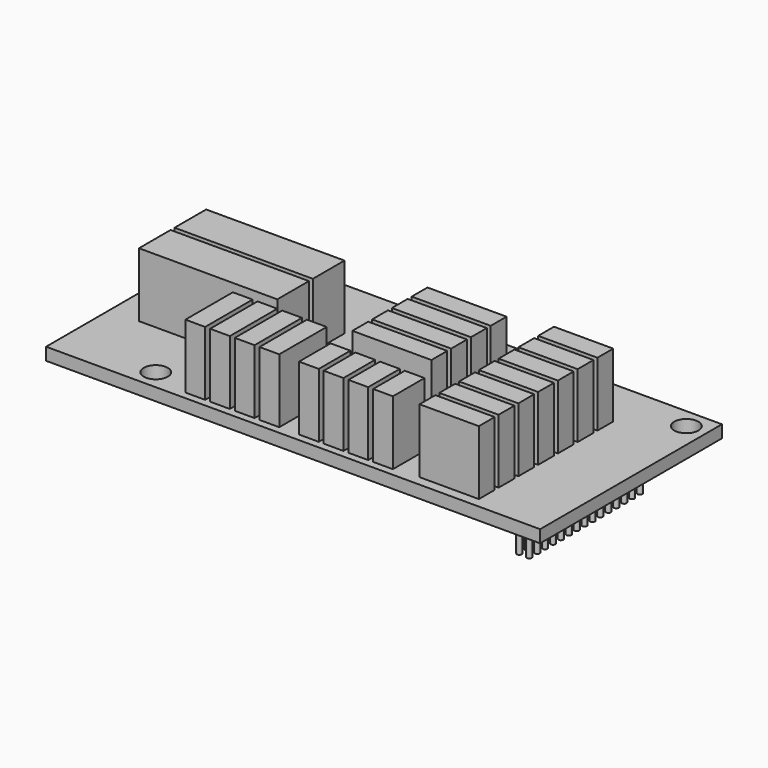
from build123d import *

# Parameters (mm, degrees)
F0_W     = 63.5
F0_H     = 29.21
F0_R     = 1.55
F0_W_2   = 3.43
F0_H_2   = 19.05
F0_W_3   = 19.05
F0_H_3   = 3.43
F0_R_2   = 0.3175
F1_DEPTH = 1.6
F2_DEPTH = 4.55
F3_DEPTH = 1.5
F4_W     = 17.78
F4_H     = 5.08
F4_W_2   = 2.54
F4_H_2   = 7.62
F4_W_3   = 10.16
F4_H_3   = 2.54
F4_W_4   = 7.62
F5_DEPTH = 8.25


with BuildPart() as f1:
    # F0 (on Top) → F1 (new body)
    with BuildSketch(Plane.XY):
        Rectangle(F0_W, F0_H)
        with Locations((-19.685, -12.065)):
            Circle(F0_R, mode=Mode.SUBTRACT)
        with Locations((26.67, -1.905)):
            Rectangle(F0_W_2, F0_H_2, mode=Mode.SUBTRACT)
        with Locations((-16.51, 9.525)):
            Rectangle(F0_W_3, F0_H_3, mode=Mode.SUBTRACT)
        with Locations((-29.21, 12.065)):
            Circle(F0_R, mode=Mode.SUBTRACT)
        with Locations((29.21, 12.065)):
            Circle(F0_R, mode=Mode.SUBTRACT)
        with Locations((-16.51, 9.525)):
            Rectangle(F0_W_3, F0_H_3)
        with Locations((-25.4, 8.89)):
            Circle(F0_R_2, mode=Mode.SUBTRACT)
        with Locations((-24.13, 8.89)):
            Circle(F0_R_2, mode=Mode.SUBTRACT)
        with Locations((-25.4, 10.16)):
            Circle(F0_R_2, mode=Mode.SUBTRACT)
        with Locations((-24.13, 10.16)):
            Circle(F0_R_2, mode=Mode.SUBTRACT)
        with Locations((-22.86, 8.89)):
            Circle(F0_R_2, mode=Mode.SUBTRACT)
        with Locations((-21.59, 8.89)):
            Circle(F0_R_2, mode=Mode.SUBTRACT)
        with Locations((-20.32, 8.89)):
            Circle(F0_R_2, mode=Mode.SUBTRACT)
        with Locations((-19.05, 8.89)):
            Circle(F0_R_2, mode=Mode.SUBTRACT)
        with Locations((-17.78, 8.89)):
            Circle(F0_R_2, mode=Mode.SUBTRACT)
        with Locations((-16.51, 8.89)):
            Circle(F0_R_2, mode=Mode.SUBTRACT)
        with Locations((-22.86, 10.16)):
            Circle(F0_R_2, mode=Mode.SUBTRACT)
        with Locations((-21.59, 10.16)):
            Circle(F0_R_2, mode=Mode.SUBTRACT)
        with Locations((-20.32, 10.16)):
            Circle(F0_R_2, mode=Mode.SUBTRACT)
        with Locations((-19.05, 10.16)):
            Circle(F0_R_2, mode=Mode.SUBTRACT)
        with Locations((-17.78, 10.16)):
            Circle(F0_R_2, mode=Mode.SUBTRACT)
        with Locations((-16.51, 10.16)):
            Circle(F0_R_2, mode=Mode.SUBTRACT)
        with Locations((-15.24, 8.89)):
            Circle(F0_R_2, mode=Mode.SUBTRACT)
        with Locations((-13.97, 8.89)):
            Circle(F0_R_2, mode=Mode.SUBTRACT)
        with Locations((-12.7, 8.89)):
            Circle(F0_R_2, mode=Mode.SUBTRACT)
        with Locations((-11.43, 8.89)):
            Circle(F0_R_2, mode=Mode.SUBTRACT)
        with Locations((-10.16, 8.89)):
            Circle(F0_R_2, mode=Mode.SUBTRACT)
        with Locations((-8.89, 8.89)):
            Circle(F0_R_2, mode=Mode.SUBTRACT)
        with Locations((-15.24, 10.16)):
            Circle(F0_R_2, mode=Mode.SUBTRACT)
        with Locations((-13.97, 10.16)):
            Circle(F0_R_2, mode=Mode.SUBTRACT)
        with Locations((-12.7, 10.16)):
            Circle(F0_R_2, mode=Mode.SUBTRACT)
        with Locations((-11.43, 10.16)):
            Circle(F0_R_2, mode=Mode.SUBTRACT)
        with Locations((-10.16, 10.16)):
            Circle(F0_R_2, mode=Mode.SUBTRACT)
        with Locations((-8.89, 10.16)):
            Circle(F0_R_2, mode=Mode.SUBTRACT)
        with Locations((-7.62, 8.89)):
            Circle(F0_R_2, mode=Mode.SUBTRACT)
        with Locations((-7.62, 10.16)):
            Circle(F0_R_2, mode=Mode.SUBTRACT)
        with Locations((26.67, -1.905)):
            Rectangle(F0_W_2, F0_H_2)
        with Locations((26.035, -10.795)):
            Circle(F0_R_2, mode=Mode.SUBTRACT)
        with Locations((27.305, -10.795)):
            Circle(F0_R_2, mode=Mode.SUBTRACT)
        with Locations((26.035, -9.525)):
            Circle(F0_R_2, mode=Mode.SUBTRACT)
        with Locations((27.305, -9.525)):
            Circle(F0_R_2, mode=Mode.SUBTRACT)
        with Locations((26.035, -8.255)):
            Circle(F0_R_2, mode=Mode.SUBTRACT)
        with Locations((27.305, -8.255)):
            Circle(F0_R_2, mode=Mode.SUBTRACT)
        with Locations((26.035, -6.985)):
            Circle(F0_R_2, mode=Mode.SUBTRACT)
        with Locations((27.305, -6.985)):
            Circle(F0_R_2, mode=Mode.SUBTRACT)
        with Locations((26.035, -5.715)):
            Circle(F0_R_2, mode=Mode.SUBTRACT)
        with Locations((27.305, -5.715)):
            Circle(F0_R_2, mode=Mode.SUBTRACT)
        with Locations((26.035, -4.445)):
            Circle(F0_R_2, mode=Mode.SUBTRACT)
        with Locations((27.305, -4.445)):
            Circle(F0_R_2, mode=Mode.SUBTRACT)
        with Locations((26.035, -3.175)):
            Circle(F0_R_2, mode=Mode.SUBTRACT)
        with Locations((27.305, -3.175)):
            Circle(F0_R_2, mode=Mode.SUBTRACT)
        with Locations((26.035, -1.905)):
            Circle(F0_R_2, mode=Mode.SUBTRACT)
        with Locations((27.305, -1.905)):
            Circle(F0_R_2, mode=Mode.SUBTRACT)
        with Locations((26.035, -0.635)):
            Circle(F0_R_2, mode=Mode.SUBTRACT)
        with Locations((27.305, -0.635)):
            Circle(F0_R_2, mode=Mode.SUBTRACT)
        with Locations((26.035, 0.635)):
            Circle(F0_R_2, mode=Mode.SUBTRACT)
        with Locations((27.305, 0.635)):
            Circle(F0_R_2, mode=Mode.SUBTRACT)
        with Locations((26.035, 1.905)):
            Circle(F0_R_2, mode=Mode.SUBTRACT)
        with Locations((27.305, 1.905)):
            Circle(F0_R_2, mode=Mode.SUBTRACT)
        with Locations((26.035, 3.175)):
            Circle(F0_R_2, mode=Mode.SUBTRACT)
        with Locations((27.305, 3.175)):
            Circle(F0_R_2, mode=Mode.SUBTRACT)
        with Locations((26.035, 4.445)):
            Circle(F0_R_2, mode=Mode.SUBTRACT)
        with Locations((27.305, 4.445)):
            Circle(F0_R_2, mode=Mode.SUBTRACT)
        with Locations((26.035, 5.715)):
            Circle(F0_R_2, mode=Mode.SUBTRACT)
        with Locations((27.305, 5.715)):
            Circle(F0_R_2, mode=Mode.SUBTRACT)
        with Locations((26.035, 6.985)):
            Circle(F0_R_2, mode=Mode.SUBTRACT)
        with Locations((27.305, 6.985)):
            Circle(F0_R_2, mode=Mode.SUBTRACT)
        with Locations((-17.78, 8.89)):
            Circle(F0_R_2)
        with Locations((26.035, -4.445)):
            Circle(F0_R_2)
        with Locations((27.305, 4.445)):
            Circle(F0_R_2)
        with Locations((26.035, 1.905)):
            Circle(F0_R_2)
        with Locations((27.305, -4.445)):
            Circle(F0_R_2)
        with Locations((-22.86, 8.89)):
            Circle(F0_R_2)
        with Locations((-16.51, 8.89)):
            Circle(F0_R_2)
        with Locations((26.035, -5.715)):
            Circle(F0_R_2)
        with Locations((27.305, -8.255)):
            Circle(F0_R_2)
        with Locations((26.035, -6.985)):
            Circle(F0_R_2)
        with Locations((-7.62, 8.89)):
            Circle(F0_R_2)
        with Locations((27.305, 3.175)):
            Circle(F0_R_2)
        with Locations((26.035, -10.795)):
            Circle(F0_R_2)
        with Locations((27.305, -5.715)):
            Circle(F0_R_2)
        with Locations((-21.59, 8.89)):
            Circle(F0_R_2)
        with Locations((-13.97, 8.89)):
            Circle(F0_R_2)
        with Locations((26.035, -3.175)):
            Circle(F0_R_2)
        with Locations((26.035, -9.525)):
            Circle(F0_R_2)
        with Locations((27.305, -9.525)):
            Circle(F0_R_2)
        with Locations((-10.16, 8.89)):
            Circle(F0_R_2)
        with Locations((27.305, 1.905)):
            Circle(F0_R_2)
        with Locations((26.035, -8.255)):
            Circle(F0_R_2)
        with Locations((27.305, -6.985)):
            Circle(F0_R_2)
        with Locations((-20.32, 8.89)):
            Circle(F0_R_2)
        with Locations((26.035, 6.985)):
            Circle(F0_R_2)
        with Locations((27.305, 0.635)):
            Circle(F0_R_2)
        with Locations((-11.43, 8.89)):
            Circle(F0_R_2)
        with Locations((-10.16, 10.16)):
            Circle(F0_R_2)
        with Locations((-12.7, 10.16)):
            Circle(F0_R_2)
        with Locations((-11.43, 10.16)):
            Circle(F0_R_2)
        with Locations((-8.89, 10.16)):
            Circle(F0_R_2)
        with Locations((26.035, 0.635)):
            Circle(F0_R_2)
        with Locations((-15.24, 8.89)):
            Circle(F0_R_2)
        with Locations((-25.4, 10.16)):
            Circle(F0_R_2)
        with Locations((-24.13, 10.16)):
            Circle(F0_R_2)
        with Locations((-22.86, 10.16)):
            Circle(F0_R_2)
        with Locations((-21.59, 10.16)):
            Circle(F0_R_2)
        with Locations((-20.32, 10.16)):
            Circle(F0_R_2)
        with Locations((-19.05, 10.16)):
            Circle(F0_R_2)
        with Locations((-17.78, 10.16)):
            Circle(F0_R_2)
        with Locations((-16.51, 10.16)):
            Circle(F0_R_2)
        with Locations((-15.24, 10.16)):
            Circle(F0_R_2)
        with Locations((-13.97, 10.16)):
            Circle(F0_R_2)
        with Locations((26.035, 5.715)):
            Circle(F0_R_2)
        with Locations((27.305, -0.635)):
            Circle(F0_R_2)
        with Locations((-8.89, 8.89)):
            Circle(F0_R_2)
        with Locations((-7.62, 10.16)):
            Circle(F0_R_2)
        with Locations((26.035, -0.635)):
            Circle(F0_R_2)
        with Locations((27.305, 6.985)):
            Circle(F0_R_2)
        with Locations((26.035, 4.445)):
            Circle(F0_R_2)
        with Locations((27.305, -1.905)):
            Circle(F0_R_2)
        with Locations((-25.4, 8.89)):
            Circle(F0_R_2)
        with Locations((-19.05, 8.89)):
            Circle(F0_R_2)
        with Locations((26.035, -1.905)):
            Circle(F0_R_2)
        with Locations((27.305, 5.715)):
            Circle(F0_R_2)
        with Locations((-12.7, 8.89)):
            Circle(F0_R_2)
        with Locations((26.035, 3.175)):
            Circle(F0_R_2)
        with Locations((27.305, -3.175)):
            Circle(F0_R_2)
        with Locations((-24.13, 8.89)):
            Circle(F0_R_2)
        with Locations((27.305, -10.795)):
            Circle(F0_R_2)
    extrude(amount=F1_DEPTH)

    # F0 (on Top) → F2 (join)
    with BuildSketch(Plane.XY):
        with Locations((-8.89, 8.89)):
            Circle(F0_R_2)
        with Locations((-12.7, 8.89)):
            Circle(F0_R_2)
        with Locations((-24.13, 8.89)):
            Circle(F0_R_2)
        with Locations((-13.97, 10.16)):
            Circle(F0_R_2)
        with Locations((-15.24, 10.16)):
            Circle(F0_R_2)
        with Locations((-16.51, 10.16)):
            Circle(F0_R_2)
        with Locations((-17.78, 10.16)):
            Circle(F0_R_2)
        with Locations((-19.05, 10.16)):
            Circle(F0_R_2)
        with Locations((-20.32, 10.16)):
            Circle(F0_R_2)
        with Locations((-21.59, 10.16)):
            Circle(F0_R_2)
        with Locations((-16.51, 8.89)):
            Circle(F0_R_2)
        with Locations((-22.86, 10.16)):
            Circle(F0_R_2)
        with Locations((-24.13, 10.16)):
            Circle(F0_R_2)
        with Locations((-25.4, 10.16)):
            Circle(F0_R_2)
        with Locations((-17.78, 8.89)):
            Circle(F0_R_2)
        with Locations((-19.05, 8.89)):
            Circle(F0_R_2)
        with Locations((-11.43, 10.16)):
            Circle(F0_R_2)
        with Locations((-12.7, 10.16)):
            Circle(F0_R_2)
        with Locations((-10.16, 10.16)):
            Circle(F0_R_2)
        with Locations((-7.62, 10.16)):
            Circle(F0_R_2)
        with Locations((-11.43, 8.89)):
            Circle(F0_R_2)
        with Locations((-15.24, 8.89)):
            Circle(F0_R_2)
        with Locations((-8.89, 10.16)):
            Circle(F0_R_2)
        with Locations((-20.32, 8.89)):
            Circle(F0_R_2)
        with Locations((-10.16, 8.89)):
            Circle(F0_R_2)
        with Locations((-21.59, 8.89)):
            Circle(F0_R_2)
        with Locations((-7.62, 8.89)):
            Circle(F0_R_2)
        with Locations((-22.86, 8.89)):
            Circle(F0_R_2)
        with Locations((-13.97, 8.89)):
            Circle(F0_R_2)
        with Locations((27.305, -3.175)):
            Circle(F0_R_2)
        with Locations((26.035, 3.175)):
            Circle(F0_R_2)
        with Locations((26.035, 5.715)):
            Circle(F0_R_2)
        with Locations((27.305, -0.635)):
            Circle(F0_R_2)
        with Locations((26.035, 4.445)):
            Circle(F0_R_2)
        with Locations((27.305, -1.905)):
            Circle(F0_R_2)
        with Locations((26.035, -6.985)):
            Circle(F0_R_2)
        with Locations((27.305, 3.175)):
            Circle(F0_R_2)
        with Locations((27.305, 4.445)):
            Circle(F0_R_2)
        with Locations((26.035, -4.445)):
            Circle(F0_R_2)
        with Locations((27.305, 5.715)):
            Circle(F0_R_2)
        with Locations((26.035, -1.905)):
            Circle(F0_R_2)
        with Locations((27.305, 6.985)):
            Circle(F0_R_2)
        with Locations((26.035, -0.635)):
            Circle(F0_R_2)
        with Locations((27.305, 0.635)):
            Circle(F0_R_2)
        with Locations((26.035, 6.985)):
            Circle(F0_R_2)
        with Locations((26.035, 0.635)):
            Circle(F0_R_2)
        with Locations((27.305, -6.985)):
            Circle(F0_R_2)
        with Locations((26.035, -8.255)):
            Circle(F0_R_2)
        with Locations((27.305, -9.525)):
            Circle(F0_R_2)
        with Locations((26.035, -3.175)):
            Circle(F0_R_2)
        with Locations((27.305, -5.715)):
            Circle(F0_R_2)
        with Locations((26.035, -10.795)):
            Circle(F0_R_2)
        with Locations((27.305, -8.255)):
            Circle(F0_R_2)
        with Locations((26.035, -5.715)):
            Circle(F0_R_2)
        with Locations((27.305, -4.445)):
            Circle(F0_R_2)
        with Locations((26.035, 1.905)):
            Circle(F0_R_2)
        with Locations((27.305, 1.905)):
            Circle(F0_R_2)
        with Locations((26.035, -9.525)):
            Circle(F0_R_2)
        with Locations((27.305, -10.795)):
            Circle(F0_R_2)
        with Locations((-25.4, 8.89)):
            Circle(F0_R_2)
    extrude(amount=-F2_DEPTH)

    # F0 (on Top) → F3 (join)
    with BuildSketch(Plane.XY):
        with Locations((26.67, -1.905)):
            Rectangle(F0_W_2, F0_H_2)
        with Locations((26.035, -10.795)):
            Circle(F0_R_2, mode=Mode.SUBTRACT)
        with Locations((27.305, -10.795)):
            Circle(F0_R_2, mode=Mode.SUBTRACT)
        with Locations((26.035, -9.525)):
            Circle(F0_R_2, mode=Mode.SUBTRACT)
        with Locations((27.305, -9.525)):
            Circle(F0_R_2, mode=Mode.SUBTRACT)
        with Locations((26.035, -8.255)):
            Circle(F0_R_2, mode=Mode.SUBTRACT)
        with Locations((27.305, -8.255)):
            Circle(F0_R_2, mode=Mode.SUBTRACT)
        with Locations((26.035, -6.985)):
            Circle(F0_R_2, mode=Mode.SUBTRACT)
        with Locations((27.305, -6.985)):
            Circle(F0_R_2, mode=Mode.SUBTRACT)
        with Locations((26.035, -5.715)):
            Circle(F0_R_2, mode=Mode.SUBTRACT)
        with Locations((27.305, -5.715)):
            Circle(F0_R_2, mode=Mode.SUBTRACT)
        with Locations((26.035, -4.445)):
            Circle(F0_R_2, mode=Mode.SUBTRACT)
        with Locations((27.305, -4.445)):
            Circle(F0_R_2, mode=Mode.SUBTRACT)
        with Locations((26.035, -3.175)):
            Circle(F0_R_2, mode=Mode.SUBTRACT)
        with Locations((27.305, -3.175)):
            Circle(F0_R_2, mode=Mode.SUBTRACT)
        with Locations((26.035, -1.905)):
            Circle(F0_R_2, mode=Mode.SUBTRACT)
        with Locations((27.305, -1.905)):
            Circle(F0_R_2, mode=Mode.SUBTRACT)
        with Locations((26.035, -0.635)):
            Circle(F0_R_2, mode=Mode.SUBTRACT)
        with Locations((27.305, -0.635)):
            Circle(F0_R_2, mode=Mode.SUBTRACT)
        with Locations((26.035, 0.635)):
            Circle(F0_R_2, mode=Mode.SUBTRACT)
        with Locations((27.305, 0.635)):
            Circle(F0_R_2, mode=Mode.SUBTRACT)
        with Locations((26.035, 1.905)):
            Circle(F0_R_2, mode=Mode.SUBTRACT)
        with Locations((27.305, 1.905)):
            Circle(F0_R_2, mode=Mode.SUBTRACT)
        with Locations((26.035, 3.175)):
            Circle(F0_R_2, mode=Mode.SUBTRACT)
        with Locations((27.305, 3.175)):
            Circle(F0_R_2, mode=Mode.SUBTRACT)
        with Locations((26.035, 4.445)):
            Circle(F0_R_2, mode=Mode.SUBTRACT)
        with Locations((27.305, 4.445)):
            Circle(F0_R_2, mode=Mode.SUBTRACT)
        with Locations((26.035, 5.715)):
            Circle(F0_R_2, mode=Mode.SUBTRACT)
        with Locations((27.305, 5.715)):
            Circle(F0_R_2, mode=Mode.SUBTRACT)
        with Locations((26.035, 6.985)):
            Circle(F0_R_2, mode=Mode.SUBTRACT)
        with Locations((27.305, 6.985)):
            Circle(F0_R_2, mode=Mode.SUBTRACT)
        with Locations((-16.51, 9.525)):
            Rectangle(F0_W_3, F0_H_3)
        with Locations((-25.4, 8.89)):
            Circle(F0_R_2, mode=Mode.SUBTRACT)
        with Locations((-24.13, 8.89)):
            Circle(F0_R_2, mode=Mode.SUBTRACT)
        with Locations((-25.4, 10.16)):
            Circle(F0_R_2, mode=Mode.SUBTRACT)
        with Locations((-24.13, 10.16)):
            Circle(F0_R_2, mode=Mode.SUBTRACT)
        with Locations((-22.86, 8.89)):
            Circle(F0_R_2, mode=Mode.SUBTRACT)
        with Locations((-21.59, 8.89)):
            Circle(F0_R_2, mode=Mode.SUBTRACT)
        with Locations((-20.32, 8.89)):
            Circle(F0_R_2, mode=Mode.SUBTRACT)
        with Locations((-19.05, 8.89)):
            Circle(F0_R_2, mode=Mode.SUBTRACT)
        with Locations((-17.78, 8.89)):
            Circle(F0_R_2, mode=Mode.SUBTRACT)
        with Locations((-16.51, 8.89)):
            Circle(F0_R_2, mode=Mode.SUBTRACT)
        with Locations((-22.86, 10.16)):
            Circle(F0_R_2, mode=Mode.SUBTRACT)
        with Locations((-21.59, 10.16)):
            Circle(F0_R_2, mode=Mode.SUBTRACT)
        with Locations((-20.32, 10.16)):
            Circle(F0_R_2, mode=Mode.SUBTRACT)
        with Locations((-19.05, 10.16)):
            Circle(F0_R_2, mode=Mode.SUBTRACT)
        with Locations((-17.78, 10.16)):
            Circle(F0_R_2, mode=Mode.SUBTRACT)
        with Locations((-16.51, 10.16)):
            Circle(F0_R_2, mode=Mode.SUBTRACT)
        with Locations((-15.24, 8.89)):
            Circle(F0_R_2, mode=Mode.SUBTRACT)
        with Locations((-13.97, 8.89)):
            Circle(F0_R_2, mode=Mode.SUBTRACT)
        with Locations((-12.7, 8.89)):
            Circle(F0_R_2, mode=Mode.SUBTRACT)
        with Locations((-11.43, 8.89)):
            Circle(F0_R_2, mode=Mode.SUBTRACT)
        with Locations((-10.16, 8.89)):
            Circle(F0_R_2, mode=Mode.SUBTRACT)
        with Locations((-8.89, 8.89)):
            Circle(F0_R_2, mode=Mode.SUBTRACT)
        with Locations((-15.24, 10.16)):
            Circle(F0_R_2, mode=Mode.SUBTRACT)
        with Locations((-13.97, 10.16)):
            Circle(F0_R_2, mode=Mode.SUBTRACT)
        with Locations((-12.7, 10.16)):
            Circle(F0_R_2, mode=Mode.SUBTRACT)
        with Locations((-11.43, 10.16)):
            Circle(F0_R_2, mode=Mode.SUBTRACT)
        with Locations((-10.16, 10.16)):
            Circle(F0_R_2, mode=Mode.SUBTRACT)
        with Locations((-8.89, 10.16)):
            Circle(F0_R_2, mode=Mode.SUBTRACT)
        with Locations((-7.62, 8.89)):
            Circle(F0_R_2, mode=Mode.SUBTRACT)
        with Locations((-7.62, 10.16)):
            Circle(F0_R_2, mode=Mode.SUBTRACT)
    extrude(amount=-F3_DEPTH)

    # F4 (on face) → F5 (join)
    with BuildSketch(Plane.XY.offset(1.6)):
        with Locations((-19.05, 3.81)):
            Rectangle(F4_W, F4_H)
        with Locations((-19.05, -1.905)):
            Rectangle(F4_W, F4_H)
        with Locations((-13.335, -9.8425)):
            Rectangle(F4_W_2, F4_H_2)
        with Locations((-10.16, -9.8425)):
            Rectangle(F4_W_2, F4_H_2)
        with Locations((-6.985, -9.8425)):
            Rectangle(F4_W_2, F4_H_2)
        with Locations((-3.81, -9.8425)):
            Rectangle(F4_W_2, F4_H_2)
        with Locations((1.27, -11.1125)):
            Rectangle(F4_W_2, F4_H)
        with Locations((4.445, -11.1125)):
            Rectangle(F4_W_2, F4_H)
        with Locations((7.62, -11.1125)):
            Rectangle(F4_W_2, F4_H)
        with Locations((10.795, -11.1125)):
            Rectangle(F4_W_2, F4_H)
        with Locations((5.08, -3.81)):
            Rectangle(F4_W_3, F4_H_3)
        with Locations((5.08, -0.635)):
            Rectangle(F4_W_3, F4_H_3)
        with Locations((5.08, 2.54)):
            Rectangle(F4_W_3, F4_H_3)
        with Locations((5.08, 5.715)):
            Rectangle(F4_W_3, F4_H_3)
        with Locations((19.05, 6.985)):
            Rectangle(F4_W_4, F4_H_3)
        with Locations((19.05, 3.81)):
            Rectangle(F4_W_4, F4_H_3)
        with Locations((19.05, 0.635)):
            Rectangle(F4_W_4, F4_H_3)
        with Locations((19.05, -2.54)):
            Rectangle(F4_W_4, F4_H_3)
        with Locations((19.05, -5.715)):
            Rectangle(F4_W_4, F4_H_3)
        with Locations((19.05, -8.89)):
            Rectangle(F4_W_4, F4_H_3)
        with Locations((19.05, -12.065)):
            Rectangle(F4_W_4, F4_H_3)
    extrude(amount=F5_DEPTH)


solid = f1.part
